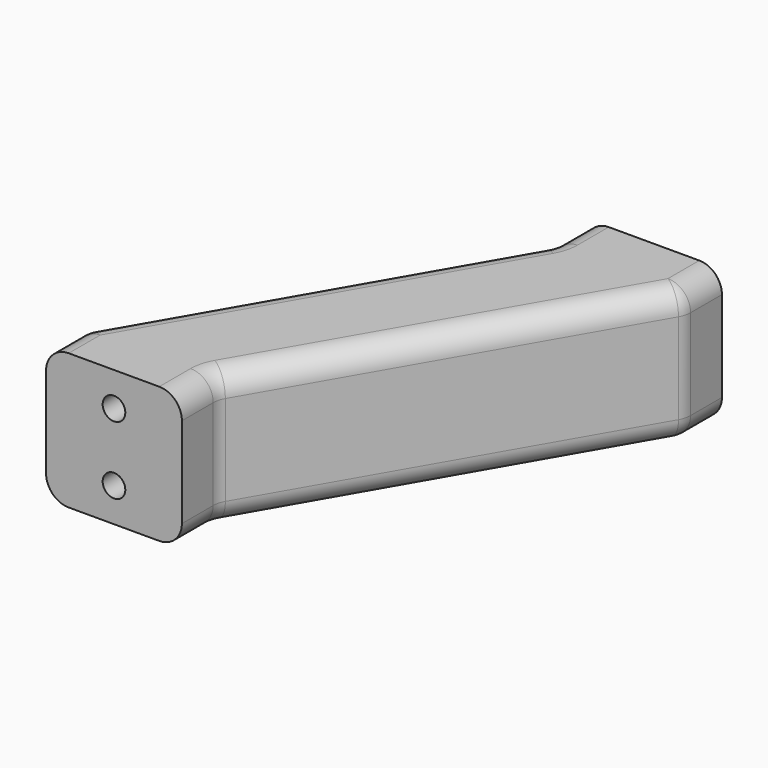
from build123d import *

# Parameters (mm, degrees)
F0_W     = 30
F0_H     = 10
F1_DEPTH = 30
F3_D     = 5
F3_DEPTH = 25
F3_TIP   = 1.5021515476
F4_R     = 5
F5_R     = 10
F6_DEPTH = 1.5


with BuildPart() as f1:
    # F0 (on Top) → F1 (new body)
    with BuildSketch(Plane.XY):
        Rectangle(F0_W, F0_H)
        Polygon((-15, 5), (15, 5), (58.3012701892, 80), (28.3012701892, 80), align=None)
        with Locations((43.3012701892, 85)):
            Rectangle(F0_W, F0_H)
    extrude(amount=F1_DEPTH)

    # F3
    with Locations(Plane.XZ.offset(5)):
        with Locations((0, 22.5), (0, 7.5)):
            Hole(F3_D / 2, depth=F3_DEPTH)
            with Locations((0, 0, -(F3_DEPTH + F3_TIP / 2))):  # 118° drill point
                Cone(0, F3_D / 2, F3_TIP, mode=Mode.SUBTRACT)

    # F4
    f4_edges = [f1.edges().sort_by_distance(p)[0] for p in [
        (15, 0, 0),
        (36.650635, 42.5, 0),
        (15, 0, 30),
        (36.650635, 42.5, 30),
        (-15, 0, 30),
        (6.650635, 42.5, 30),
        (28.30127, 85, 30),
        (58.30127, 85, 30),
        (58.30127, 85, 0),
        (28.30127, 85, 0),
        (6.650635, 42.5, 0),
        (-15, 0, 0),
        (58.30127, 80, 15),
        (15, 5, 15),
        (-15, 5, 15),
        (28.30127, 80, 15),
    ]]
    fillet(f4_edges, radius=F4_R)

    # F5 (on face) → F6 (cut)
    with BuildSketch(Plane(origin=(0, 90, 0), x_dir=(-1, 0, 0), z_dir=(0, 1, 0))):
        with Locations((-43.3012701892, 15)):
            Circle(F5_R)
    extrude(amount=-F6_DEPTH, mode=Mode.SUBTRACT)


solid = f1.part
